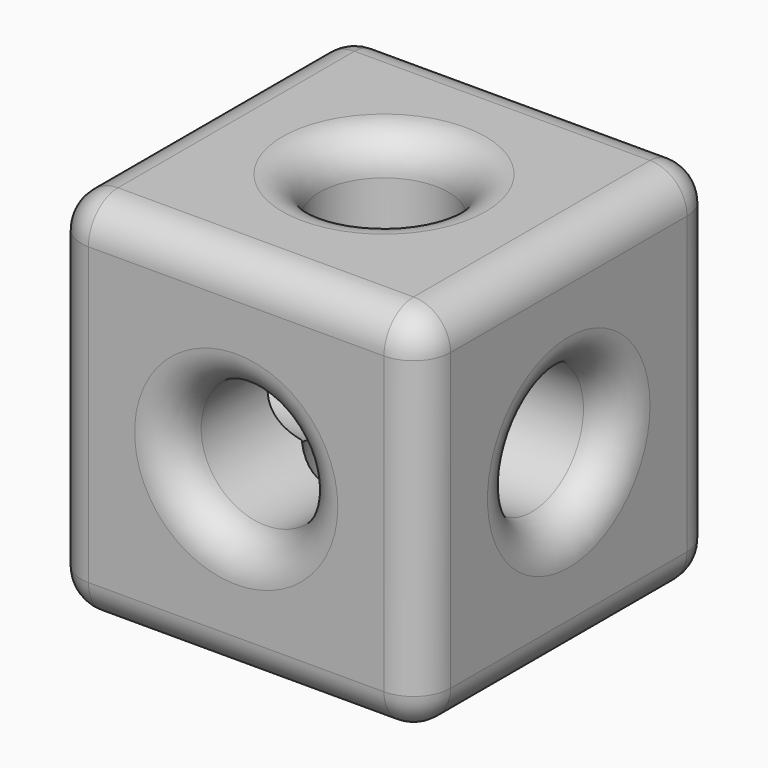
from build123d import *

# Parameters (mm, degrees)
F0_W     = 100
F0_H     = 100
F1_DEPTH = 50
F2_R     = 17.5
F3_DEPTH = 100.001
F4_R     = 17.5
F5_DEPTH = 100.001
F6_R     = 10
F7_R     = 10
F8_R     = 17.5
F9_DEPTH = 100.001
F10_R    = 10


with BuildPart() as f1:
    # F0 (on Front) → F1 (new body, symmetric)
    with BuildSketch(Plane.XZ):
        Rectangle(F0_W, F0_H)
    extrude(amount=F1_DEPTH, both=True)

    # F2 (on face) → F3 (cut, through all)
    with BuildSketch(Plane.XZ.offset(50)):
        Circle(F2_R)
    extrude(amount=-F3_DEPTH, mode=Mode.SUBTRACT)

    # F4 (on face) → F5 (cut, through all)
    with BuildSketch(Plane.YZ.offset(50)):
        Circle(F4_R)
    extrude(amount=-F5_DEPTH, mode=Mode.SUBTRACT)

    # F6
    f6_edges = [f1.edges().sort_by_distance(p)[0] for p in [
        (0, -50, 50),
        (50, -50, 0),
        (0, -50, -50),
        (-50, -50, 0),
        (50, 0, -50),
        (-50, 0, -50),
        (0, 50, -50),
        (50, 50, 0),
        (50, 0, 50),
        (0, 50, 50),
        (-50, 50, 0),
        (-50, 0, 50),
        (-17.5, 50, 0),
        (-17.5, -50, 0),
    ]]
    fillet(f6_edges, radius=F6_R)

    # F7
    f7_edges = [f1.edges().sort_by_distance(p)[0] for p in [
        (50, -17.5, 0),
        (-50, -17.5, 0),
    ]]
    fillet(f7_edges, radius=F7_R)

    # F8 (on face) → F9 (cut, through all)
    with BuildSketch(Plane.XY.offset(50)):
        Circle(F8_R)
    extrude(amount=-F9_DEPTH, mode=Mode.SUBTRACT)

    # F10
    f10_edges = [f1.edges().sort_by_distance(p)[0] for p in [
        (-17.5, 0, -50),
        (-17.5, 0, 50),
    ]]
    fillet(f10_edges, radius=F10_R)


solid = f1.part
